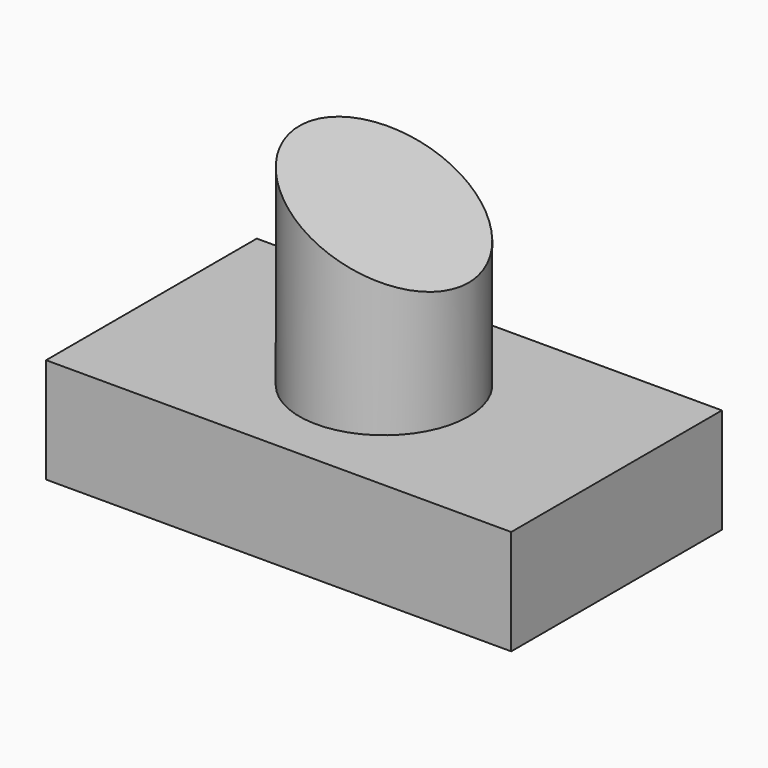
from build123d import *

# Parameters (mm, degrees)
F0_W     = 112.405978
F0_H     = 63.648052
F1_DEPTH = 25.4
F2_R     = 20.433121
F3_DEPTH = 50.8
F5_DEPTH = 25.4


with BuildPart() as f1:
    # F0 (on Top) → F1 (new body)
    with BuildSketch(Plane.XY):
        Rectangle(F0_W, F0_H)
    extrude(amount=F1_DEPTH)

    # F2 (on face) → F3 (join)
    with BuildSketch(Plane.XY.offset(25.4)):
        Circle(F2_R)
    extrude(amount=F3_DEPTH)

    # F4 (on Front) → F5 (cut, symmetric)
    with BuildSketch(Plane.XZ):
        Polygon((42.320769, 80.948107), (-34.6261, 80.948107), (42.320769, 43.09025), align=None)
    extrude(amount=F5_DEPTH, both=True, mode=Mode.SUBTRACT)


solid = f1.part
